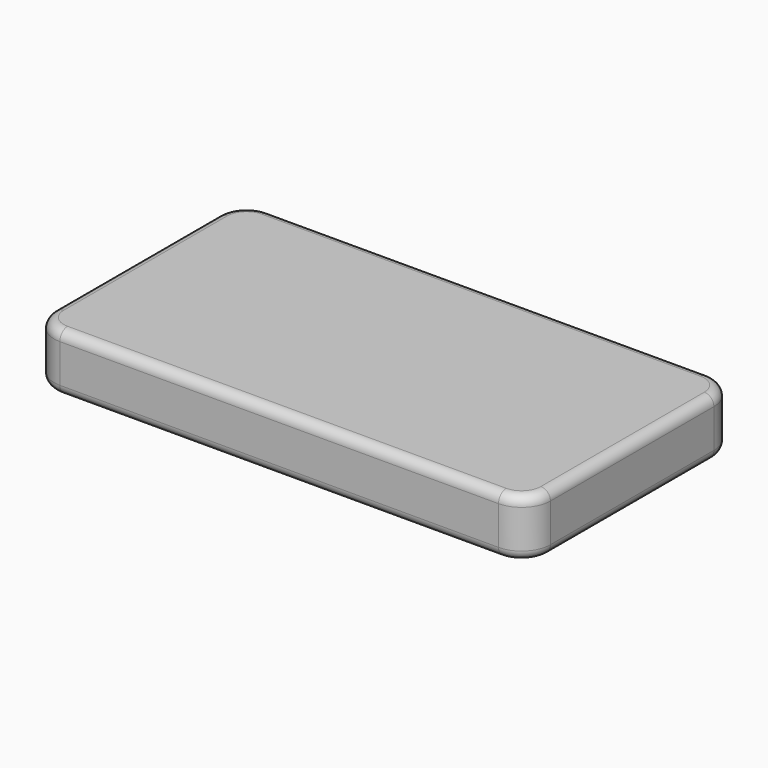
from build123d import *

# Parameters (mm, degrees)
F1_DEPTH = 152.4
F2_R     = 25.4


with BuildPart() as f1:
    # F0 (on Top) → F1 (new body)
    with BuildSketch(Plane.XY):
        with BuildLine():
            ThreePointArc((655.6375, 269.875), (633.319037, 323.756537), (579.4375, 346.075))
            Line((579.4375, 346.075), (-579.4375, 346.075))
            ThreePointArc((-579.4375, 346.075), (-633.319037, 323.756537), (-655.6375, 269.875))
            Line((-655.6375, 269.875), (-655.6375, -269.875))
            ThreePointArc((-655.6375, -269.875), (-633.319037, -323.756537), (-579.4375, -346.075))
            Line((-579.4375, -346.075), (579.4375, -346.075))
            ThreePointArc((579.4375, -346.075), (633.319037, -323.756537), (655.6375, -269.875))
            Line((655.6375, -269.875), (655.6375, 269.875))
        make_face()
    extrude(amount=F1_DEPTH)

    # F2
    f2_edges = [f1.edges().sort_by_distance(p)[0] for p in [
        (0, -346.075, 152.4),
        (0, -346.075, 0),
    ]]
    fillet(f2_edges, radius=F2_R)


solid = f1.part
